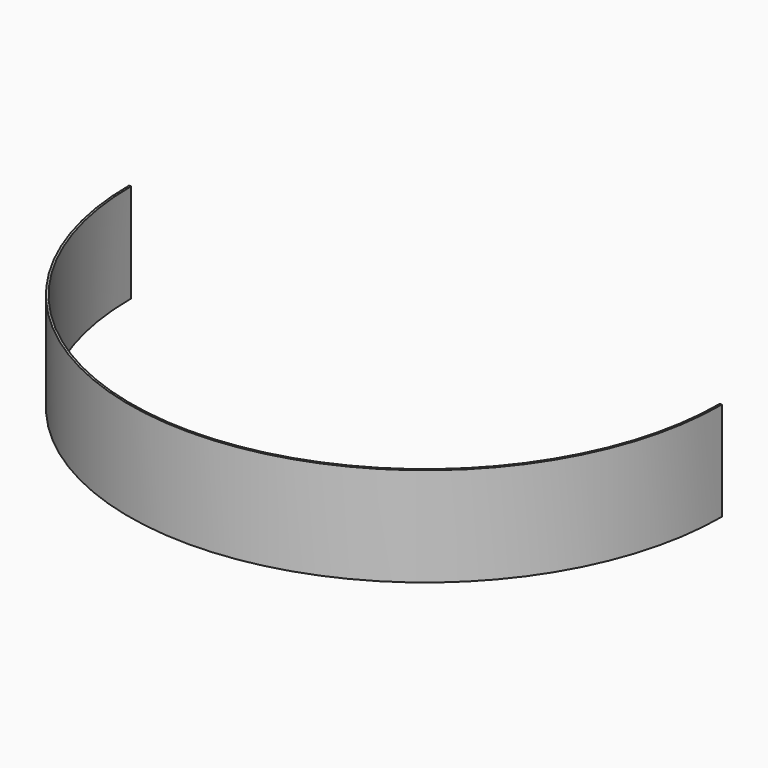
from build123d import *

# Parameters (mm, degrees)
F1_DEPTH = 152.4
F2_T     = -3.175


with BuildPart() as f1:
    # F0 (on Top) → F1 (new body)
    with BuildSketch(Plane.XY):
        with BuildLine():
            Line((914.4, 0), (0, 0))
            ThreePointArc((0, 0), (457.2, -457.2), (914.4, 0))
        make_face()
    extrude(amount=F1_DEPTH)

    # F2
    f2_openings = [f1.faces().sort_by_distance(p)[0] for p in [
        (457.2, -194.041707, 152.4),
        (457.2, 0, 76.2),
        (457.2, -194.041707, 0),
    ]]
    offset(amount=F2_T, openings=f2_openings)


solid = f1.part
